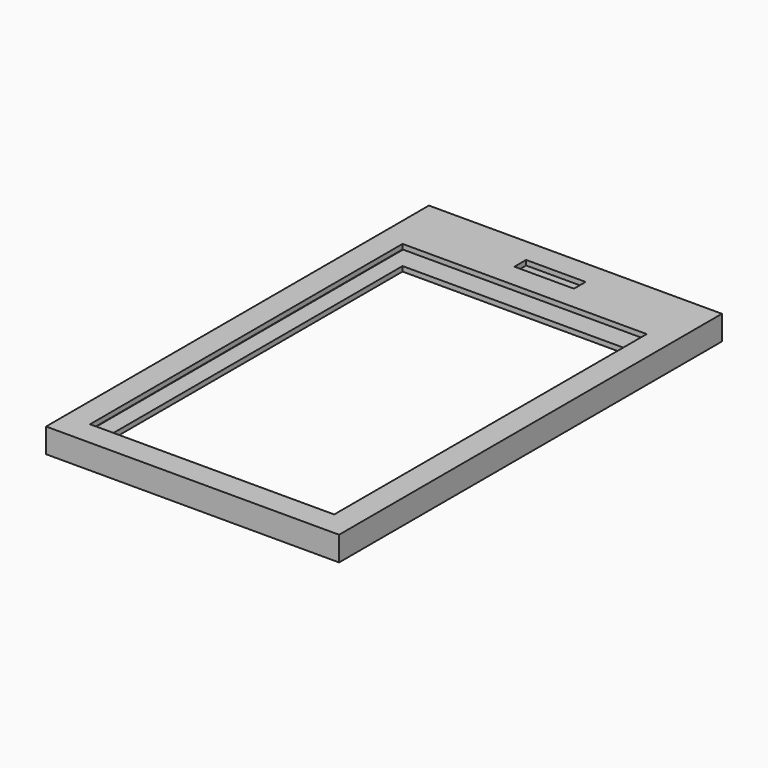
from build123d import *

# Parameters (mm, degrees)
F0_W     = 60
F0_H     = 98
F0_W_2   = 50
F0_H_2   = 80
F0_W_3   = 12.190704
F0_H_3   = 3
F1_DEPTH = 1
F3_DEPTH = 3
F4_W     = 57
F4_H     = 96.5
F4_W_2   = 50
F4_H_2   = 80
F4_W_3   = 12.190704
F4_H_3   = 3
F5_DEPTH = 1


with BuildPart() as f1:
    # F0 (on Top) → F1 (new body)
    with BuildSketch(Plane.XY):
        with Locations((0, 6.455527)):
            Rectangle(F0_W, F0_H)
        with Locations((0, 2.455527)):
            Rectangle(F0_W_2, F0_H_2, mode=Mode.SUBTRACT)
        with Locations((0, 48.955527)):
            Rectangle(F0_W_3, F0_H_3, mode=Mode.SUBTRACT)
    extrude(amount=F1_DEPTH)

    # F2 (on face) → F3 (join)
    with BuildSketch(Plane.XY.offset(1)):
        Polygon((-28.5, 55.455527), (-30, 55.455527), (-30, -42.544473), (30, -42.544473), (30, 55.455527), (28.5, 55.455527), (28.5, -41.044473), (-28.5, -41.044473), align=None)
    extrude(amount=F3_DEPTH)

    # F4 (on face) → F5 (join)
    with BuildSketch(Plane.XY.offset(4)):
        with Locations((0, 7.205527)):
            Rectangle(F4_W, F4_H)
        with Locations((0, 2.455527)):
            Rectangle(F4_W_2, F4_H_2, mode=Mode.SUBTRACT)
        with Locations((0, 48.955527)):
            Rectangle(F4_W_3, F4_H_3, mode=Mode.SUBTRACT)
        Polygon((30, -42.544473), (30, 55.455527), (28.5, 55.455527), (28.5, -41.044473), (-28.5, -41.044473), (-28.5, 55.455527), (-30, 55.455527), (-30, -42.544473), align=None)
    extrude(amount=F5_DEPTH)


solid = f1.part
